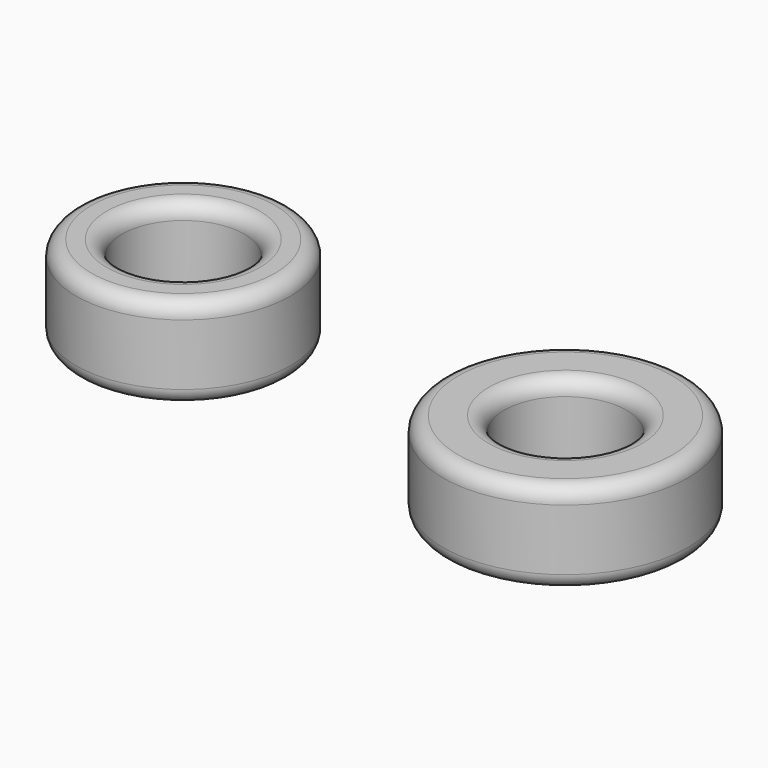
from build123d import *

# Parameters (mm, degrees)
F0_R     = 4
F0_R_2   = 2
F1_DEPTH = 3
F2_R     = 0.5
F0_R_3   = 3.5
F3_DEPTH = 3
F4_R     = 0.5
F5_R     = 0.5


with BuildPart() as f1:
    # F0 (on Top) → F1 (new body)
    with BuildSketch(Plane.XY):
        Circle(F0_R)
        Circle(F0_R_2, mode=Mode.SUBTRACT)
    extrude(amount=F1_DEPTH)

    # F2
    f2_edges = [f1.edges().sort_by_distance(p)[0] for p in [
        (-2, 0, 3),
        (-2, 0, 0),
        (-4, 0, 0),
        (-4, 0, 3),
    ]]
    fillet(f2_edges, radius=F2_R)

    # F0 (on Top) → F3 (join)
    with BuildSketch(Plane.XY):
        Circle(F0_R)
        Circle(F0_R_2, mode=Mode.SUBTRACT)
        with Locations((-13.690544, 1.507337)):
            Circle(F0_R_3)
        with Locations((-13.690544, 1.507337)):
            Circle(F0_R_2, mode=Mode.SUBTRACT)
    extrude(amount=F3_DEPTH)

    # F4
    f4_edges = [f1.edges().sort_by_distance(p)[0] for p in [
        (-17.190544, 1.507337, 3),
        (-15.690544, 1.507337, 3),
        (-17.190544, 1.507337, 0),
        (-15.690544, 1.507337, 0),
    ]]
    fillet(f4_edges, radius=F4_R)

    # F5
    f5_edges = [f1.edges().sort_by_distance(p)[0] for p in [
        (-4, 0, 3),
        (-2, 0, 3),
        (-4, 0, 0),
        (-2, 0, 0),
    ]]
    fillet(f5_edges, radius=F5_R)


solid = f1.part
